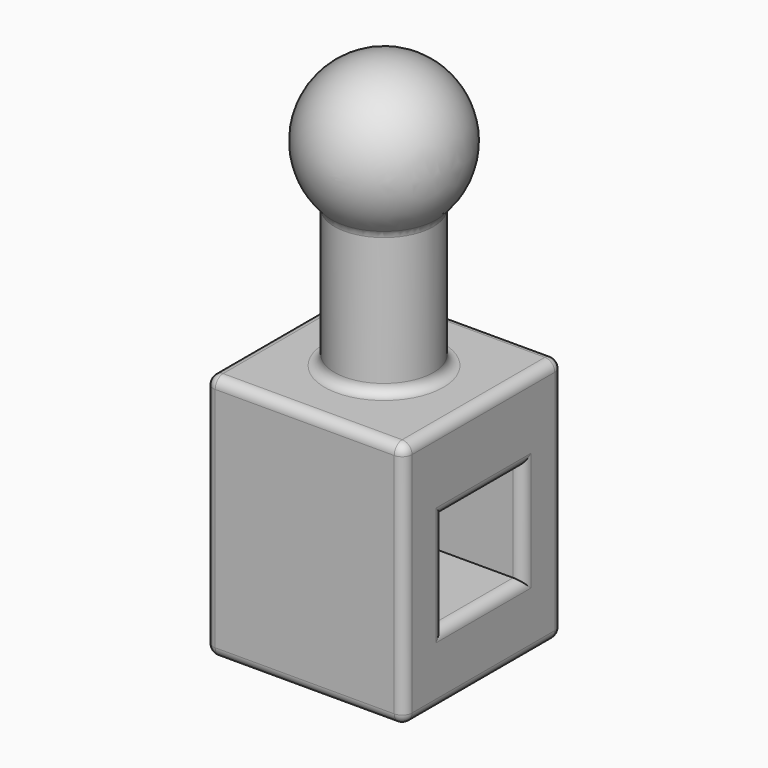
from build123d import *

# Parameters (mm, degrees)
F0_W     = 102.1404191852
F0_H     = 101.830907166
F1_DEPTH = 101.6
F2_DEPTH = 25.4
F3_R     = 25.4
F4_DEPTH = 101.6
F7_W     = 50.8
F7_H     = 50.8
F8_DEPTH = 101.6
F9_R     = 5.08


with BuildPart() as f1:
    # F0 (on Top) → F1 (new body)
    with BuildSketch(Plane.XY):
        Rectangle(F0_W, F0_H)
    extrude(amount=F1_DEPTH)

    # F2 (add): a face of the model
    f2_faces = [f1.faces().sort_by_distance(p)[0] for p in [
        (0, 0, 101.6),
    ]]
    extrude(f2_faces, amount=F2_DEPTH)

    # F3 (on face) → F4 (join)
    with BuildSketch(Plane.XY.offset(127)):
        Circle(F3_R)
    extrude(amount=F4_DEPTH)

    # F5 (on face) → F6 (revolve)
    with BuildSketch(Plane.XY.offset(228.6)):
        with BuildLine():
            Line((0, -25.4), (0, -38.1))
            ThreePointArc((0, -38.1), (38.1, 0), (0, 38.1))
            Line((0, 38.1), (0, 25.4))
            ThreePointArc((0, 25.4), (17.9605122421, 17.9605122421), (25.4, 0))
            ThreePointArc((25.4, 0), (17.9605122421, -17.9605122421), (0, -25.4))
        make_face()
    revolve(axis=Axis((0, 0, 228.6), (0, -1, 0)))

    # F7 (on face) → F8 (cut)
    with BuildSketch(Plane.YZ.offset(51.0702095926)):
        with Locations((0, 61.0084416688)):
            Rectangle(F7_W, F7_H)
    extrude(amount=-F8_DEPTH, mode=Mode.SUBTRACT)

    # F9
    f9_edges = [f1.edges().sort_by_distance(p)[0] for p in [
        (0, 50.915454, 127),
        (51.07021, 50.915454, 63.5),
        (-51.07021, 50.915454, 63.5),
        (0, 50.915454, 0),
        (51.07021, 0, 127),
        (51.07021, -50.915454, 63.5),
        (51.07021, 0, 0),
        (51.07021, 0, 86.408442),
        (51.07021, 25.4, 61.008442),
        (51.07021, 0, 35.608442),
        (51.07021, -25.4, 61.008442),
        (-51.07021, 0, 0),
        (0, -50.915454, 0),
        (0, -50.915454, 127),
        (-51.07021, 0, 127),
        (-51.07021, -50.915454, 63.5),
        (-25.4, 0, 200.201937),
        (-25.4, 0, 127),
        (25.4, 0, 163.600968),
    ]]
    fillet(f9_edges, radius=F9_R)


solid = f1.part
